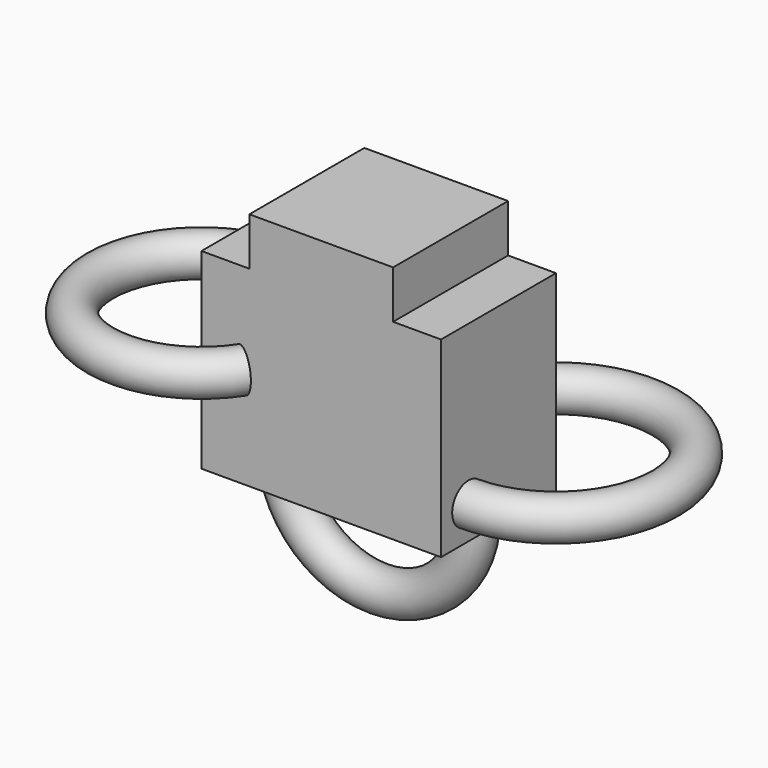
from build123d import *

# Parameters (mm, degrees)
F0_W      = 25.4
F0_H      = 76.2
F0_R      = 10.795
F0_W_2    = 76.2
F1_DEPTH  = 101.6
F2_R      = 10.795
F3_ANGLE  = 237.1709936833
F4_R      = 10.795
F5_ANGLE  = 245
F6_DEPTH  = 127
F7_ANGLE  = 180
F8_D      = 21.59
F8_DEPTH  = 6.35
F8_TIP    = 6.4862903824
F9_D      = 21.59
F9_DEPTH  = 6.35
F9_TIP    = 6.4862903824
F10_D     = 21.59
F10_DEPTH = 6.35
F10_TIP   = 6.4862903824
F11_D     = 21.59
F11_DEPTH = 6.35
F11_TIP   = 6.4862903824


with BuildPart() as f1:
    # F0 (on Top) → F1 (new body)
    with BuildSketch(Plane.XY):
        with Locations((94.1747859895, 38.1)):
            Rectangle(F0_W, F0_H)
        with Locations((94.1747859895, 38.1)):
            Circle(F0_R, mode=Mode.SUBTRACT)
        with Locations((-7.4252140105, 38.1)):
            Rectangle(F0_W, F0_H)
        with Locations((-7.4252140105, 38.1)):
            Circle(F0_R, mode=Mode.SUBTRACT)
        with Locations((43.3747859895, 38.1)):
            Rectangle(F0_W_2, F0_H)
        with Locations((-7.4252140105, 38.1)):
            Circle(F0_R)
        with Locations((94.1747859895, 38.1)):
            Circle(F0_R)
    extrude(amount=F1_DEPTH)

    # F0 (on Top) → F6 (join)
    with BuildSketch(Plane.XY):
        with Locations((43.3747859895, 38.1)):
            Rectangle(F0_W_2, F0_H)
    extrude(amount=F6_DEPTH)

    # F8
    with Locations(Plane.YZ.offset(106.8747859895)):
        with Locations((18.2052832097, 17.663128674)):
            Hole(F8_D / 2, depth=F8_DEPTH)
            with Locations((0, 0, -(F8_DEPTH + F8_TIP / 2))):  # 118° drill point
                Cone(0, F8_D / 2, F8_TIP, mode=Mode.SUBTRACT)

    # F9
    with Locations(Plane(origin=(-20.1252140105, 0, 0), x_dir=(0, -1, 0), z_dir=(-1, 0, 0))):
        with Locations((-53.6399707198, 72.639323771)):
            Hole(F9_D / 2, depth=F9_DEPTH)
            with Locations((0, 0, -(F9_DEPTH + F9_TIP / 2))):  # 118° drill point
                Cone(0, F9_D / 2, F9_TIP, mode=Mode.SUBTRACT)

    # F10
    with Locations(Plane(origin=(0, 0, 0), x_dir=(1, 0, 0), z_dir=(0, 0, -1))):
        with Locations((-7.4252140105, -38.1)):
            Hole(F10_D / 2, depth=F10_DEPTH)
            with Locations((0, 0, -(F10_DEPTH + F10_TIP / 2))):  # 118° drill point
                Cone(0, F10_D / 2, F10_TIP, mode=Mode.SUBTRACT)

    # F11
    with Locations(Plane(origin=(0, 0, 0), x_dir=(1, 0, 0), z_dir=(0, 0, -1))):
        with Locations((94.1747859895, -38.1)):
            Hole(F11_D / 2, depth=F11_DEPTH)
            with Locations((0, 0, -(F11_DEPTH + F11_TIP / 2))):  # 118° drill point
                Cone(0, F11_D / 2, F11_TIP, mode=Mode.SUBTRACT)


with BuildPart() as f3:
    # F2 (on face) → F3 (revolve)
    with BuildSketch(Plane(origin=(-20.1252140105, 0, 0), x_dir=(0, -1, 0), z_dir=(-1, 0, 0))):
        with Locations((-53.6399707198, 72.639323771)):
            Circle(F2_R)
    revolve(axis=Axis((-20.1252140105, 0, 50.8), (0, 0, 1)), revolution_arc=F3_ANGLE)


with BuildPart() as f5:
    # F4 (on face) → F5 (revolve)
    with BuildSketch(Plane.YZ.offset(106.8747859895)):
        with Locations((18.2052832097, 17.663128674)):
            Circle(F4_R)
    revolve(axis=Axis((106.8747859895, 76.2, 50.8), (0, 0, 1)), revolution_arc=F5_ANGLE)


with BuildPart() as f7:
    # F0 (on Top) → F7 (revolve)
    with BuildSketch(Plane.XY):
        with Locations((-7.4252140105, 38.1)):
            Circle(F0_R)
    revolve(axis=Axis((43.3747859895, 38.1, 0), (0, -1, 0)), revolution_arc=F7_ANGLE)


solid = Compound([f1.part, f3.part, f5.part, f7.part])
